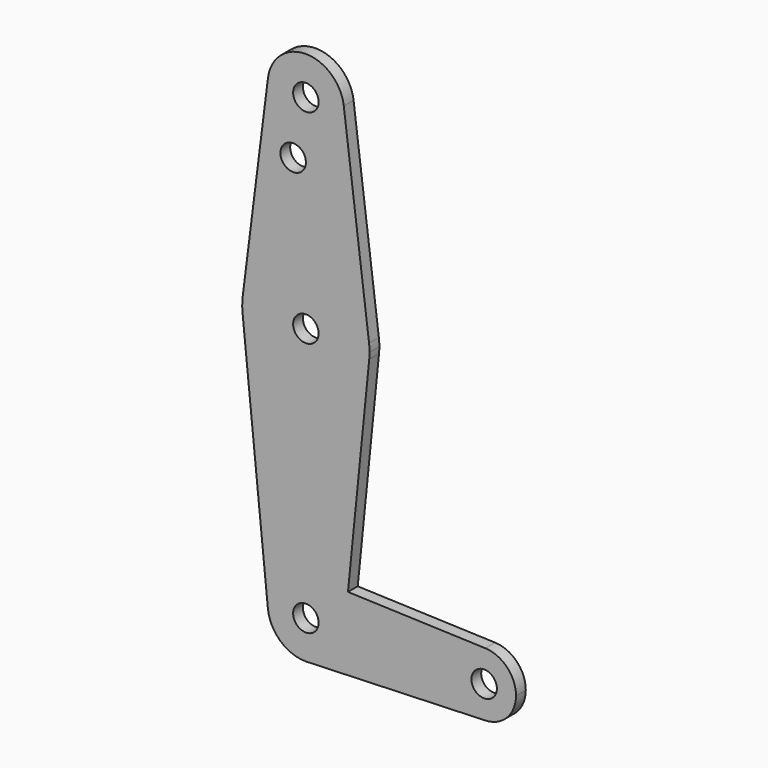
from build123d import *

# Parameters (mm, degrees)
F0_R     = 3.175
F1_DEPTH = 3.048


with BuildPart() as f1:
    # F0 (on Front) → F1 (new body)
    with BuildSketch(Plane.XZ):
        with BuildLine():
            ThreePointArc((-9.4502929642, 65.1294916194), (-0.596483242, 54.4325617252), (9.525, 63.9388666194))
            ThreePointArc((9.525, 63.9388666194), (9.5063048942, 64.5353498614), (9.4502929642, 65.1294916194))
            ThreePointArc((9.4502929642, 65.1294916194), (0, 73.4638666194), (-9.4502929642, 65.1294916194))
        make_face()
        with Locations((0, 63.9388666194)):
            Circle(F0_R, mode=Mode.SUBTRACT)
        with BuildLine():
            ThreePointArc((9.4502929642, 65.1294916194), (9.5063048942, 64.5353498614), (9.525, 63.9388666194))
            ThreePointArc((9.525, 63.9388666194), (-0.596483242, 54.4325617252), (-9.4502929642, 65.1294916194))
            Line((-9.4502929642, 65.1294916194), (-15.7504882737, 15.1232416194))
            ThreePointArc((-15.7504882737, 15.1232416194), (0, 29.0138666194), (15.7504882737, 15.1232416194))
            Line((15.7504882737, 15.1232416194), (9.4502929642, 65.1294916194))
        make_face()
        with Locations((-3.175, 49.6640666194)):
            Circle(F0_R, mode=Mode.SUBTRACT)
        with BuildLine():
            ThreePointArc((15.875, 13.1388666194), (15.8438414904, 14.133005356), (15.7504882737, 15.1232416194))
            ThreePointArc((15.7504882737, 15.1232416194), (0, 29.0138666194), (-15.7504882737, 15.1232416194))
            ThreePointArc((-15.7504882737, 15.1232416194), (-15.8737438155, 13.3385721061), (-15.7954255641, 11.5513666194))
            ThreePointArc((-15.7954255641, 11.5513666194), (0, -2.7361333806), (15.7954255641, 11.5513666194))
            ThreePointArc((15.7954255641, 11.5513666194), (15.8550939106, 12.3441200653), (15.875, 13.1388666194))
        make_face()
        with Locations((0, 13.1388666194)):
            Circle(F0_R, mode=Mode.SUBTRACT)
        with BuildLine():
            ThreePointArc((15.7954255641, 11.5513666194), (0, -2.7361333806), (-15.7954255641, 11.5513666194))
            Line((-15.7954255641, 11.5513666194), (-9.4772553384, -51.3136333806))
            ThreePointArc((-9.4772553384, -51.3136333806), (-7.063929059, -43.9715691349), (0, -40.8361333806))
            ThreePointArc((0, -40.8361333806), (0.3388863295, -40.8421638431), (0.6773435479, -40.8602475946))
            Line((0.6773435479, -40.8602475946), (10.4927401509, -41.2096870706))
            Line((10.4927401509, -41.2096870706), (15.7954255641, 11.5513666194))
        make_face()
        with BuildLine():
            ThreePointArc((0, -40.8361333806), (-7.063929059, -43.9715691349), (-9.4772553384, -51.3136333806))
            ThreePointArc((-9.4772553384, -51.3136333806), (-6.3895642457, -57.4250624396), (0, -59.8861333806))
            Line((0, -59.8861333806), (0.6773435479, -59.8620191666))
            ThreePointArc((0.6773435479, -59.8620191666), (6.6368437169, -57.1932582681), (9.4772553384, -51.3136333806))
            ThreePointArc((9.4772553384, -51.3136333806), (9.5130563464, -50.8379813131), (9.525, -50.3611333806))
            ThreePointArc((9.525, -50.3611333806), (6.9705567315, -43.8698342924), (0.6773435479, -40.8602475946))
            Line((0.6773435479, -40.8602475946), (0, -40.8361333806))
        make_face()
        with Locations((0, -50.3611333806)):
            Circle(F0_R, mode=Mode.SUBTRACT)
        with BuildLine():
            Line((44.7324052746, -42.428658766), (10.4927401509, -41.2096870706))
            Line((10.4927401509, -41.2096870706), (9.4772553384, -51.3136333806))
            ThreePointArc((9.4772553384, -51.3136333806), (6.6368437169, -57.1932582681), (0.6773435479, -59.8620191666))
            Line((0.6773435479, -59.8620191666), (44.7324052746, -58.2936079952))
            ThreePointArc((44.7324052746, -58.2936079952), (36.5125, -50.3611333806), (44.7324052746, -42.428658766))
        make_face()
        with BuildLine():
            Line((9.4772553384, -51.3136333806), (10.4927401509, -41.2096870706))
            Line((10.4927401509, -41.2096870706), (0.6773435479, -40.8602475946))
            ThreePointArc((0.6773435479, -40.8602475946), (6.9705567315, -43.8698342924), (9.525, -50.3611333806))
            ThreePointArc((9.525, -50.3611333806), (9.5130563464, -50.8379813131), (9.4772553384, -51.3136333806))
        make_face()
        with BuildLine():
            Line((0.6773435479, -59.8620191666), (0, -59.8861333806))
            ThreePointArc((0, -59.8861333806), (0.3388863295, -59.8801029181), (0.6773435479, -59.8620191666))
        make_face()
        with BuildLine():
            ThreePointArc((52.3875, -50.3611333806), (50.1616327839, -44.8492228959), (44.7324052746, -42.428658766))
            ThreePointArc((44.7324052746, -42.428658766), (36.5125, -50.3611333806), (44.7324052746, -58.2936079952))
            ThreePointArc((44.7324052746, -58.2936079952), (50.1616327839, -55.8730438653), (52.3875, -50.3611333806))
        make_face()
        with Locations((44.45, -50.3611333806)):
            Circle(F0_R, mode=Mode.SUBTRACT)
    extrude(amount=F1_DEPTH)


solid = f1.part
